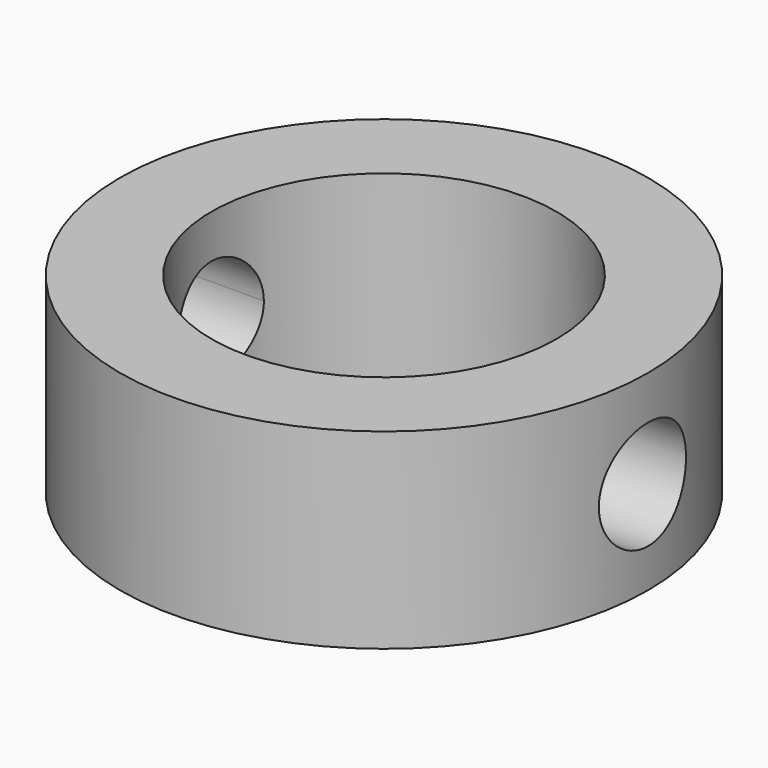
from build123d import *

# Parameters (mm, degrees)
F0_R      = 17.0053
F1_DEPTH  = 12.319
F3_DEPTH  = 25.4
F3_FACE_R = 3.5052
F4_DEPTH  = 25.4
F5_R      = 11.107827
F6_DEPTH  = 25.4


with BuildPart() as f1:
    # F0 (on Top) → F1 (new body)
    with BuildSketch(Plane.XY):
        Circle(F0_R)
    extrude(amount=F1_DEPTH)

    # F2 (on Right) → F3 (cut)
    with BuildSketch(Plane.YZ):
        with BuildLine():
            ThreePointArc((0, 9.508782), (-3.5052, 6.003582), (0, 2.498382))
            Line((0, 2.498382), (0, 6.003582))
            Line((0, 6.003582), (0, 9.508782))
        make_face()
        with BuildLine():
            Line((0, 6.003582), (0, 2.498382))
            ThreePointArc((0, 2.498382), (2.478551, 3.525031), (3.5052, 6.003582))
            ThreePointArc((3.5052, 6.003582), (2.478551, 8.482132), (0, 9.508782))
            Line((0, 9.508782), (0, 6.003582))
        make_face()
    extrude(amount=-F3_DEPTH, mode=Mode.SUBTRACT)

    # F3_face (on face) → F4 (cut)
    with BuildSketch(Plane(origin=(0, 0, 6.003582), x_dir=(0, 1, 0), z_dir=(-1, 0, 0))):
        Circle(F3_FACE_R)
    extrude(amount=-F4_DEPTH, mode=Mode.SUBTRACT)

    # F5 (on face) → F6 (cut)
    with BuildSketch(Plane(origin=(0, 0, 0), x_dir=(1, 0, 0), z_dir=(0, 0, -1))):
        Circle(F5_R)
    extrude(amount=-F6_DEPTH, mode=Mode.SUBTRACT)


solid = f1.part
